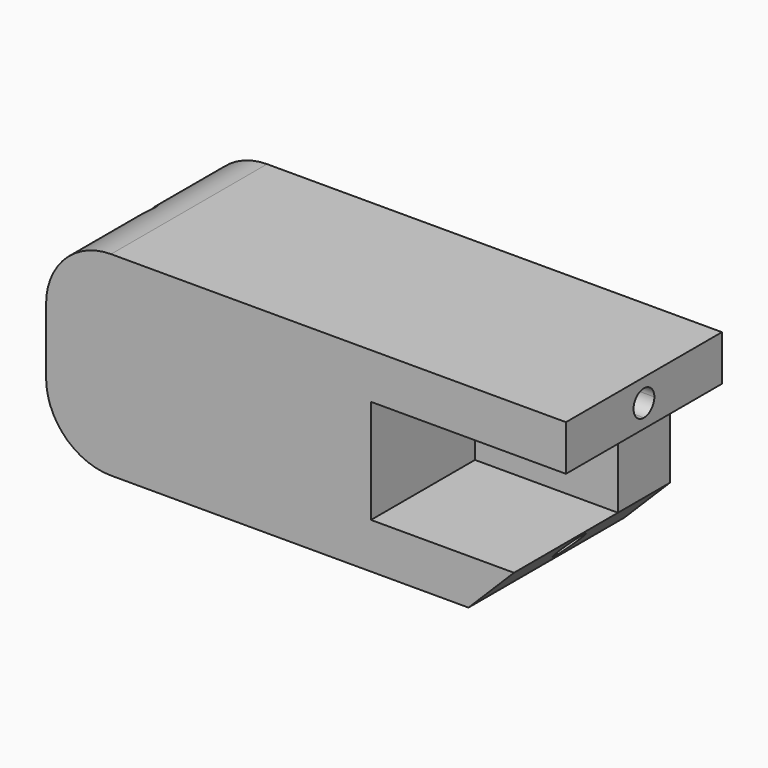
from build123d import *

# Parameters (mm, degrees)
F0_W     = 4
F0_H     = 3.5
F0_W_2   = 11
F0_H_2   = 4
F0_W_3   = 10
F1_DEPTH = 15
F2_DEPTH = 5
F3_R     = 5
F4_R     = 5
F5_SIZE  = 3.5
F7_DEPTH = 40


with BuildPart() as f1:
    # F0 (on Front) → F1 (new body)
    with BuildSketch(Plane.XZ):
        with Locations((-18, -5.75)):
            Rectangle(F0_W, F0_H)
        Polygon((16, -4), (5, -4), (-5, -4), (-5, -7.5), (16, -7.5), align=None)
        Polygon((-16, 4), (-5, 4), (-5, 7.5), (-20, 7.5), (-20, 4), align=None)
        with Locations((-10.5, -5.75)):
            Rectangle(F0_W_2, F0_H)
        Polygon((-16, 0), (-16, 4), (-20, 4), (-20, -4), (-16, -4), align=None)
        Polygon((-5, 4), (5, 4), (16, 4), (20, 4), (20, 7.5), (-5, 7.5), align=None)
        with Locations((-10.5, 2)):
            Rectangle(F0_W_2, F0_H_2)
        with Locations((0, 2)):
            Rectangle(F0_W_3, F0_H_2)
        with Locations((-10.5, -2)):
            Rectangle(F0_W_2, F0_H_2)
        with Locations((0, -2)):
            Rectangle(F0_W_3, F0_H_2)
    extrude(amount=F1_DEPTH)

    # F0 (on Front) → F2 (join)
    with BuildSketch(Plane.XZ):
        with Locations((-10.5, 2)):
            Rectangle(F0_W_2, F0_H_2)
        with Locations((0, 2)):
            Rectangle(F0_W_3, F0_H_2)
        with Locations((0, -2)):
            Rectangle(F0_W_3, F0_H_2)
        with Locations((10.5, 2)):
            Rectangle(F0_W_2, F0_H_2)
        with Locations((-10.5, -2)):
            Rectangle(F0_W_2, F0_H_2)
        with Locations((10.5, -2)):
            Rectangle(F0_W_2, F0_H_2)
        Polygon((-5, 4), (5, 4), (16, 4), (20, 4), (20, 7.5), (-5, 7.5), align=None)
        Polygon((16, -4), (5, -4), (-5, -4), (-5, -7.5), (16, -7.5), align=None)
        with Locations((-10.5, -5.75)):
            Rectangle(F0_W_2, F0_H)
        with Locations((-18, -5.75)):
            Rectangle(F0_W, F0_H)
        Polygon((-16, 0), (-16, 4), (-20, 4), (-20, -4), (-16, -4), align=None)
        Polygon((-16, 4), (-5, 4), (-5, 7.5), (-20, 7.5), (-20, 4), align=None)
    extrude(amount=F2_DEPTH)

    # F3
    f3_edges = [f1.edges().sort_by_distance(p)[0] for p in [
        (-20, -7.5, 7.5),
    ]]
    fillet(f3_edges, radius=F3_R)

    # F4
    f4_edges = [f1.edges().sort_by_distance(p)[0] for p in [
        (-20, -7.5, -7.5),
    ]]
    fillet(f4_edges, radius=F4_R)

    # F5
    f5_edges = [f1.edges().sort_by_distance(p)[0] for p in [
        (16, -7.5, -7.5),
    ]]
    chamfer(f5_edges, length=F5_SIZE)

    # F6 (on face) → F7 (cut)
    with BuildSketch(Plane.YZ.offset(20)):
        with BuildLine():
            ThreePointArc((-6.5, -5.75), (-6.7928932188, -5.0428932188), (-7.5, -4.75))
            Line((-7.5, -4.75), (-7.5, -6.75))
            ThreePointArc((-7.5, -6.75), (-6.7928932188, -6.4571067812), (-6.5, -5.75))
        make_face()
        with BuildLine():
            Line((-7.5, -6.75), (-7.5, -4.75))
            ThreePointArc((-7.5, -4.75), (-8.5, -5.75), (-7.5, -6.75))
        make_face()
        with BuildLine():
            ThreePointArc((-7.5, 6.75), (-8.5, 5.75), (-7.5, 4.75))
            Line((-7.5, 4.75), (-7.5, 6.75))
        make_face()
        with BuildLine():
            Line((-7.5, 6.75), (-7.5, 4.75))
            ThreePointArc((-7.5, 4.75), (-6.7928932188, 5.0428932188), (-6.5, 5.75))
            ThreePointArc((-6.5, 5.75), (-6.7928932188, 6.4571067812), (-7.5, 6.75))
        make_face()
    extrude(amount=-F7_DEPTH, mode=Mode.SUBTRACT)


solid = f1.part
